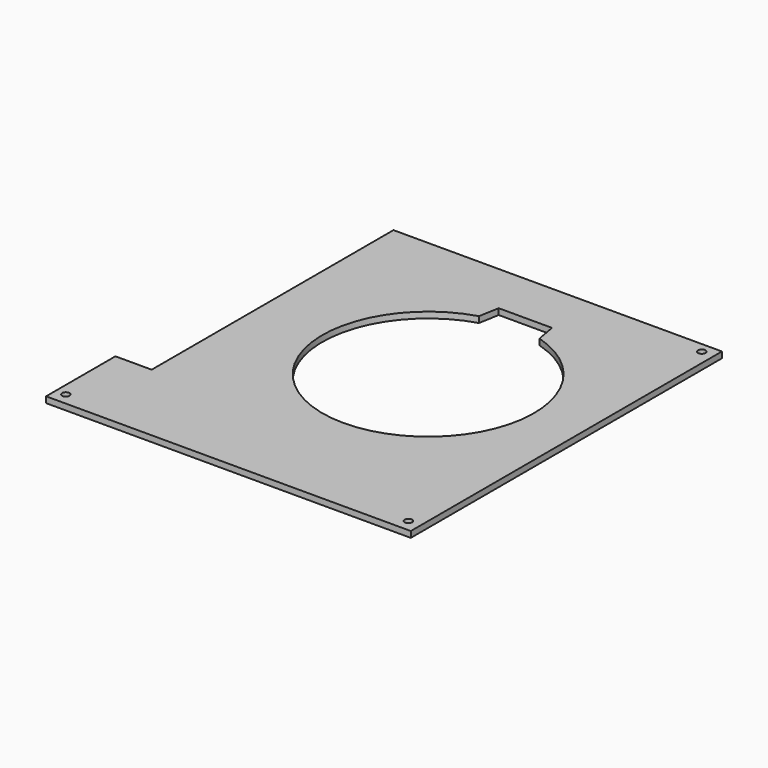
from build123d import *

# Parameters (mm, degrees)
SKETCH244_R          = 1.85
PAD019_DEPTH         = 3
POCKET016_DEPTH      = 0.001
POCKET016_DEPTH_BACK = 3.001
SKETCH245_W          = 4
SKETCH245_H          = 16
PAD020_DEPTH         = 4


with BuildPart() as part:
    # Sketch244 → Pad019 (new body)
    with BuildSketch(Plane.XY):
        Polygon((91, 90), (-72, 90), (-72, -60), (-90, -60), (-90, -103), (91, -103), align=None)
        with Locations((85, 85)):
            Circle(SKETCH244_R, mode=Mode.SUBTRACT)
        with Locations((85, -97)):
            Circle(SKETCH244_R, mode=Mode.SUBTRACT)
        with Locations((-85, -97)):
            Circle(SKETCH244_R, mode=Mode.SUBTRACT)
    extrude(amount=PAD019_DEPTH)

    # Sketch243 → Pocket016 (cut, two sides)
    with BuildSketch(Plane.XY) as pocket016_sk:
        with BuildLine():
            ThreePointArc((-1, 54.311529), (14, -48.5), (29, 54.311529))
            Line((27.23673, 64.311529), (29, 54.311529))
            Line((0.76327, 64.311529), (27.23673, 64.311529))
            Line((-1, 54.311529), (0.76327, 64.311529))
        make_face()
    extrude(amount=-POCKET016_DEPTH, mode=Mode.SUBTRACT)
    extrude(pocket016_sk.sketch, amount=POCKET016_DEPTH_BACK, mode=Mode.SUBTRACT)

    # Sketch245 (on Face1 of Pocket016) → Pad020 (join)
    with BuildSketch(Plane(origin=(0, 80, 0), x_dir=(-1, 0, 0), z_dir=(0, 1, 0))):
        with Locations((47, -8)):
            Rectangle(SKETCH245_W, SKETCH245_H)
    extrude(amount=-PAD020_DEPTH)


with BuildPart() as part_1:
    # Body010 placement: moved
    add(part.part.moved(Location((0, 0, 185))))


solid = part_1.part
